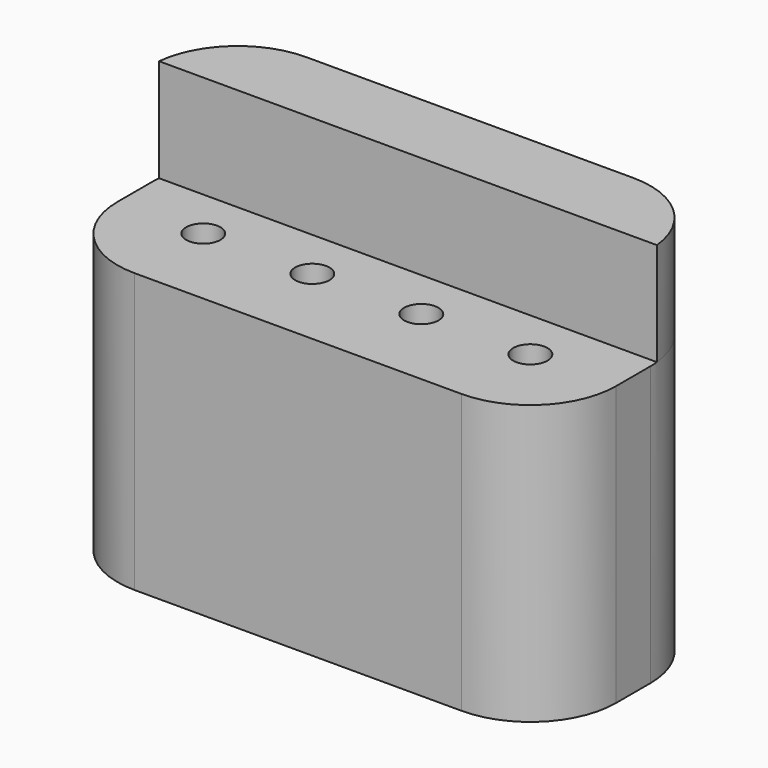
from build123d import *

# Parameters (mm, degrees)
SKETCH_R     = 0.4
PAD_DEPTH    = 6.5
PAD001_DEPTH = 2.4


with BuildPart() as part:
    # Sketch → Pad (new body)
    with BuildSketch(Plane.XY):
        with BuildLine():
            Line((-3.81, -2), (3.81, -2))
            ThreePointArc((3.81, -2), (5.224214, -1.414214), (5.81, 0))
            Line((5.81, 0), (5.81, 1))
            ThreePointArc((5.81, 1), (5.224214, 2.414214), (3.81, 3))
            Line((3.81, 3), (-3.81, 3))
            ThreePointArc((-3.81, 3), (-5.224214, 2.414214), (-5.81, 1))
            Line((-5.81, 0), (-5.81, 1))
            ThreePointArc((-5.81, 0), (-5.224214, -1.414214), (-3.81, -2))
        make_face()
        with Locations((-3.81, 0)):
            Circle(SKETCH_R, mode=Mode.SUBTRACT)
        with Locations((-1.27, 0)):
            Circle(SKETCH_R, mode=Mode.SUBTRACT)
        with Locations((1.27, 0)):
            Circle(SKETCH_R, mode=Mode.SUBTRACT)
        with Locations((3.81, 0)):
            Circle(SKETCH_R, mode=Mode.SUBTRACT)
    extrude(amount=PAD_DEPTH)

    # Sketch001 → Pad001 (join)
    with BuildSketch(Plane.XY.offset(6.5)):
        with BuildLine():
            ThreePointArc((-3.81, 3), (-5.151641, 2.48324), (-5.799975, 1.2))
            Line((-5.799975, 1.2), (5.799975, 1.2))
            ThreePointArc((5.799975, 1.2), (5.151641, 2.48324), (3.81, 3))
            Line((-3.81, 3), (3.81, 3))
        make_face()
    extrude(amount=PAD001_DEPTH)


solid = part.part
